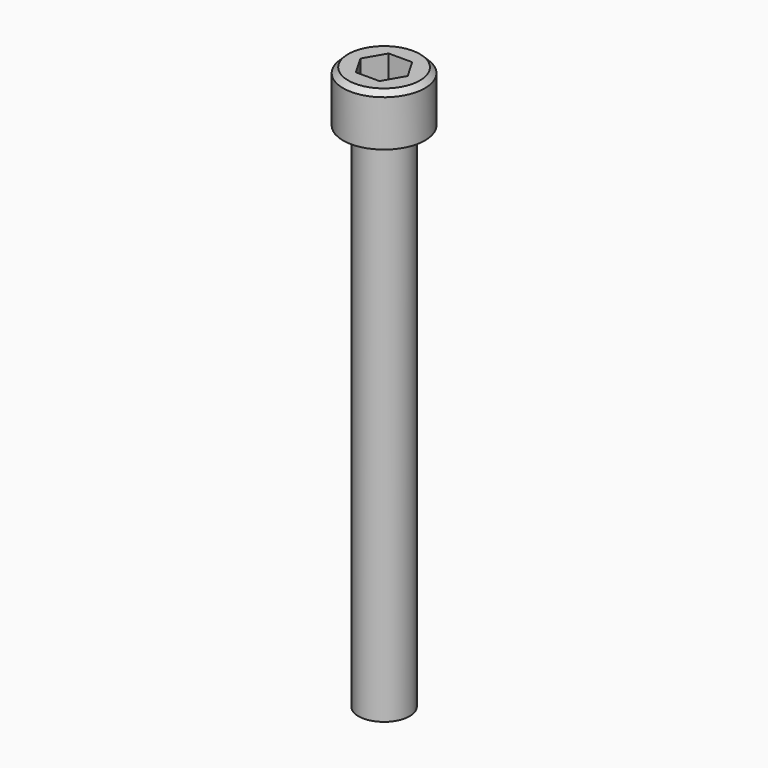
from build123d import *

# Parameters (mm, degrees)
F0_R     = 4
F0_R_2   = 2.5
F1_DEPTH = 5
F2_START = 2
F2_DEPTH = 3
F3_DEPTH = 50
F4_SIZE  = 0.5


with BuildPart() as f1:
    # F0 (on Top) → F1 (new body)
    with BuildSketch(Plane.XY):
        Circle(F0_R)
        Circle(F0_R_2, mode=Mode.SUBTRACT)
        Circle(F0_R_2)
        Polygon((2.3094010768, 0), (1.1547005384, -2), (-1.1547005384, -2), (-2.3094010768, 0), (-1.1547005384, 2), (1.1547005384, 2), align=None, mode=Mode.SUBTRACT)
        Polygon((-1.1547005384, -2), (1.1547005384, -2), (2.3094010768, 0), (1.1547005384, 2), (-1.1547005384, 2), (-2.3094010768, 0), align=None)
    extrude(amount=F1_DEPTH)

    # F0 (on Top) → F2 (cut)
    with BuildSketch(Plane.XY.offset(F2_START)):
        Polygon((-1.1547005384, -2), (1.1547005384, -2), (2.3094010768, 0), (1.1547005384, 2), (-1.1547005384, 2), (-2.3094010768, 0), align=None)
    extrude(amount=F2_DEPTH, mode=Mode.SUBTRACT)

    # F0 (on Top) → F3 (join)
    with BuildSketch(Plane.XY):
        Circle(F0_R_2)
        Polygon((2.3094010768, 0), (1.1547005384, -2), (-1.1547005384, -2), (-2.3094010768, 0), (-1.1547005384, 2), (1.1547005384, 2), align=None, mode=Mode.SUBTRACT)
        Polygon((-1.1547005384, -2), (1.1547005384, -2), (2.3094010768, 0), (1.1547005384, 2), (-1.1547005384, 2), (-2.3094010768, 0), align=None)
    extrude(amount=-F3_DEPTH)

    # F4
    f4_edges = [f1.edges().sort_by_distance(p)[0] for p in [
        (-4, 0, 5),
    ]]
    chamfer(f4_edges, length=F4_SIZE)


solid = f1.part
